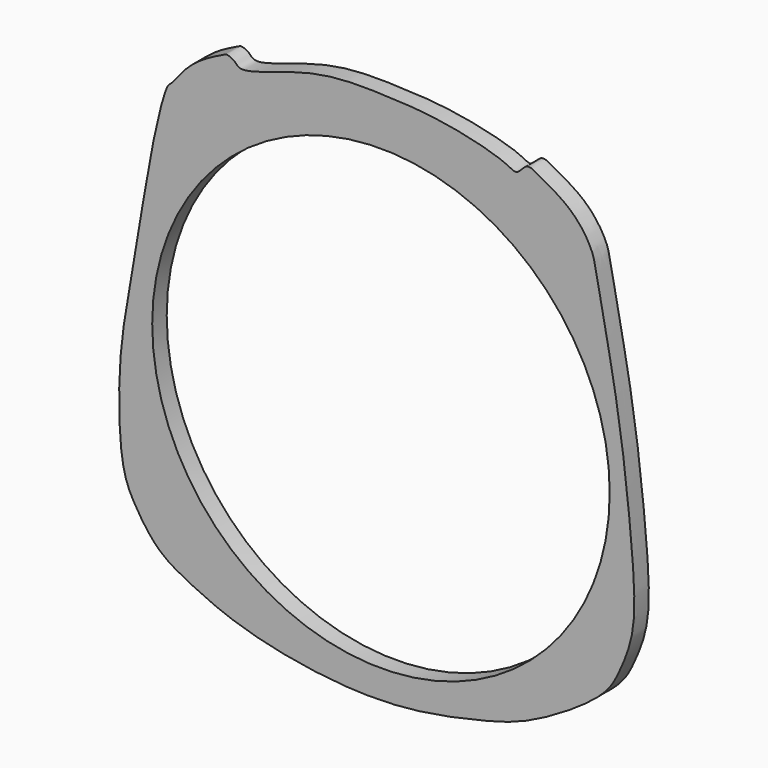
from build123d import *

# Parameters (mm, degrees)
F0_R     = 26.2170860532
F0_R_2   = 25.2170860532
F2_DEPTH = 2


with BuildPart() as f2:
    # F0 (on Front) → F2 (new body)
    with BuildSketch(Plane.XZ):
        with BuildLine():
            add(Edge.make_bspline(
                [(-15.4276391203, 27.9401979858), (-14.3279947725, 27.766105438), (-7.6779446616, 30.6627390405), (-0.1513154218, 30.5748747008), (6.6084388934, 30.2503589788), (13.6065382667, 28.5650590932), (15.0170437578, 27.4129076197), (16.0324260087, 29.0956194697), (17.5191374417, 28.1626500701), (21.2517357515, 26.2394599986), (23.3886365056, 22.8877009589), (23.7526917364, 20.6628045373), (26.0825960148, 9.2756332169), (27.1561579794, 0.742431869), (28.0657034509, -8.4776984291), (27.8458691017, -13.3184834631), (26.2463777946, -17.1944229966), (24.6180201483, -20.2094619765), (16.9626086384, -25.0059798567), (11.9569136323, -26.5536870054), (4.2039684509, -28.2512450896), (-2.9395045533, -28.4911758813), (-10.4686784133, -27.5302876258), (-16.7841212391, -25.8661909295), (-21.628754536, -23.5873605283), (-24.779719572, -21.7693814194), (-27.2853061048, -18.0569148229), (-28.8509140998, -14.6775880941), (-29.0508394088, -3.8903962006), (-27.2572475455, 4.5447616021), (-25.4524952567, 16.9555226728), (-23.6958600716, 23.7421049779), (-23.0725215252, 23.9499407773), (-21.5546675519, 26.186505573), (-19.0124931356, 27.9197446319), (-17.3464075452, 28.6453794847), (-16.998755011, 28.8783589664), (-16.0495049666, 28.5012016499), (-15.808924728, 28.0005620326), (-15.4276391203, 27.9401979858)],
                knots=[0, 0, 0, 0, 0.0343257297, 0.0699541197, 0.1033101477, 0.1364648166, 0.1509020878, 0.1654465013, 0.1801793038, 0.2062297716, 0.2303434226, 0.2491783986, 0.2908560895, 0.3297536139, 0.3672276322, 0.394801362, 0.4194083395, 0.4426129483, 0.4793511506, 0.5090567456, 0.5436533411, 0.5775278779, 0.6119159117, 0.644135459, 0.6727786963, 0.6965675658, 0.7220990104, 0.7463595516, 0.7863424055, 0.8245599827, 0.8700510434, 0.9010939808, 0.909846589, 0.9296134461, 0.9526148056, 0.9688148939, 0.9763713625, 0.9880980549, 1, 1, 1, 1], degree=3))
        make_face()
        Circle(F0_R, mode=Mode.SUBTRACT)
        Circle(F0_R)
        Circle(F0_R_2, mode=Mode.SUBTRACT)
    extrude(amount=F2_DEPTH)


solid = f2.part
